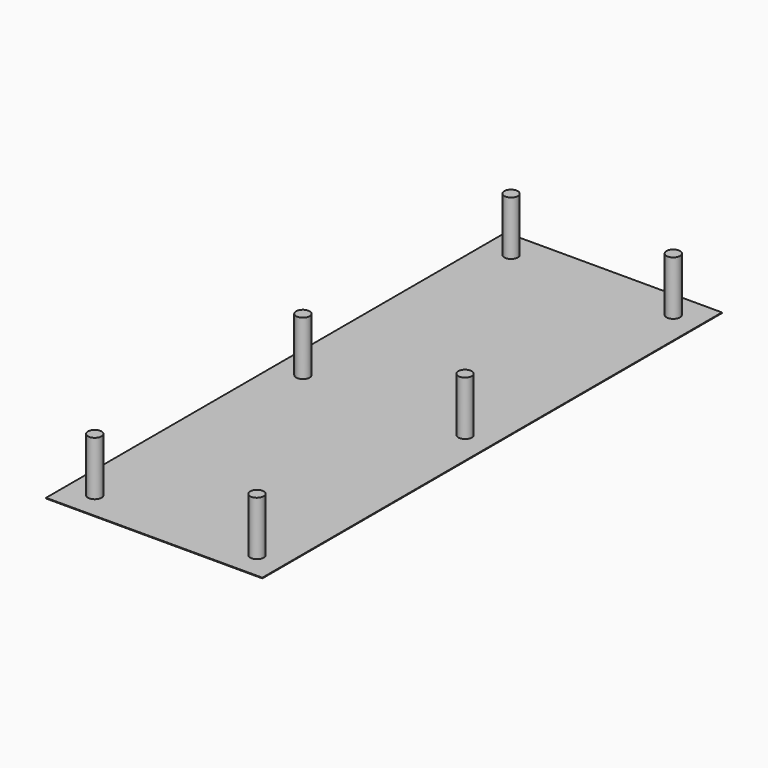
from build123d import *

# Parameters (mm, degrees)
F0_W     = 160
F0_H     = 425
F1_DEPTH = 0.5
F2_R     = 5
F3_DEPTH = 40


with BuildPart() as f1:
    # F0 (on Top) → F1 (new body)
    with BuildSketch(Plane.XY):
        Rectangle(F0_W, F0_H)
    extrude(amount=F1_DEPTH)

    # F2 (on face) → F3 (join)
    with BuildSketch(Plane.XY.offset(0.5)):
        with Locations((-60, 192.5)):
            Circle(F2_R)
        with Locations((60, 192.5)):
            Circle(F2_R)
        with Locations((60, -192.5)):
            Circle(F2_R)
        with Locations((-60, -192.5)):
            Circle(F2_R)
        with Locations((-60, 0)):
            Circle(F2_R)
        with Locations((59.999999, 0)):
            Circle(F2_R)
    extrude(amount=F3_DEPTH)


solid = f1.part
